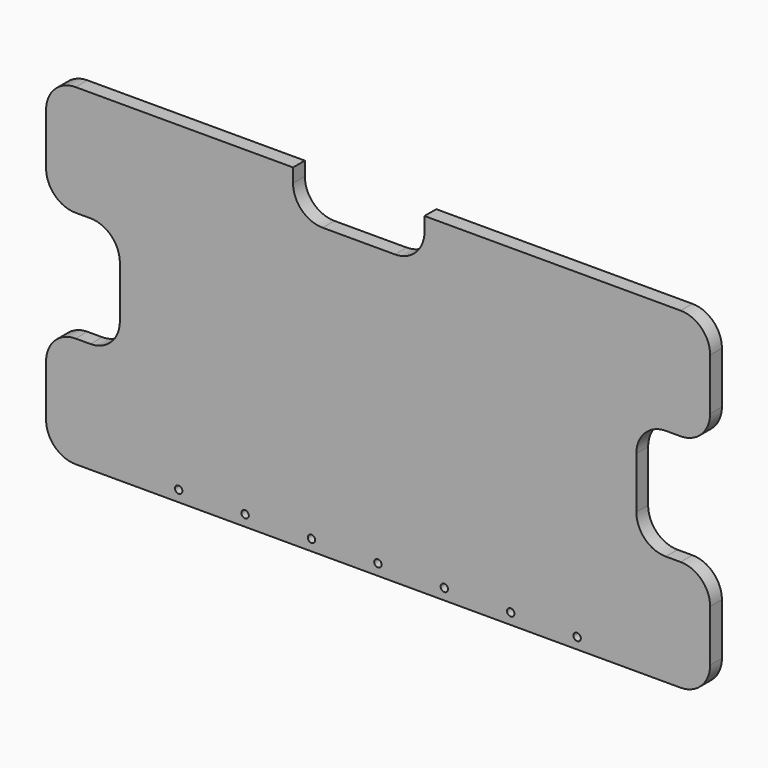
from build123d import *

# Parameters (mm, degrees)
F1_DEPTH = 2.54
F2_R     = 5.08
F3_R     = 0.635
F4_DEPTH = 25.4
F5_W     = 22.621028
F5_H     = 7.478164
F6_DEPTH = 25.4
F7_R     = 5.08


with BuildPart() as f1:
    # F0 (on Front) → F1 (new body)
    with BuildSketch(Plane.XZ):
        Polygon((48.55294, 56.607572), (-65.74706, 56.607572), (-65.74706, 37.557572), (-53.04706, 37.557572), (-53.04706, 18.507572), (-65.74706, 18.507572), (-65.74706, -0.542428), (48.55294, -0.542428), (48.55294, 18.507572), (35.85294, 18.507572), (35.85294, 37.557572), (48.55294, 37.557572), align=None)
    extrude(amount=F1_DEPTH)

    # F2
    f2_edges = [f1.edges().sort_by_distance(p)[0] for p in [
        (-65.74706, -1.27, 56.607572),
        (-65.74706, -1.27, 37.557572),
        (-53.04706, -1.27, 37.557572),
        (-53.04706, -1.27, 18.507572),
        (-65.74706, -1.27, 18.507572),
        (-65.74706, -1.27, -0.542428),
        (48.55294, -1.27, -0.542428),
        (35.85294, -1.27, 18.507572),
        (48.55294, -1.27, 18.507572),
        (35.85294, -1.27, 37.557572),
        (48.55294, -1.27, 37.557572),
        (48.55294, -1.27, 56.607572),
    ]]
    fillet(f2_edges, radius=F2_R)

    # F3 (on face) → F4 (cut)
    with BuildSketch(Plane.XZ.offset(2.54)):
        with Locations((-42.918559, 1.362572)):
            Circle(F3_R)
        with Locations((-31.488559, 1.362572)):
            Circle(F3_R)
        with Locations((-20.058559, 1.362572)):
            Circle(F3_R)
        with Locations((-8.628559, 1.362572)):
            Circle(F3_R)
        with Locations((2.801441, 1.362572)):
            Circle(F3_R)
        with Locations((14.231441, 1.362572)):
            Circle(F3_R)
        with Locations((25.661441, 1.362572)):
            Circle(F3_R)
    extrude(amount=-F4_DEPTH, mode=Mode.SUBTRACT)

    # F5 (on face) → F6 (cut)
    with BuildSketch(Plane.XZ.offset(2.54)):
        with Locations((-11.923544, 52.86849)):
            Rectangle(F5_W, F5_H)
    extrude(amount=-F6_DEPTH, mode=Mode.SUBTRACT)

    # F7
    f7_edges = [f1.edges().sort_by_distance(p)[0] for p in [
        (-23.234058, -1.27, 49.129408),
        (-0.61303, -1.27, 49.129408),
    ]]
    fillet(f7_edges, radius=F7_R)


solid = f1.part
